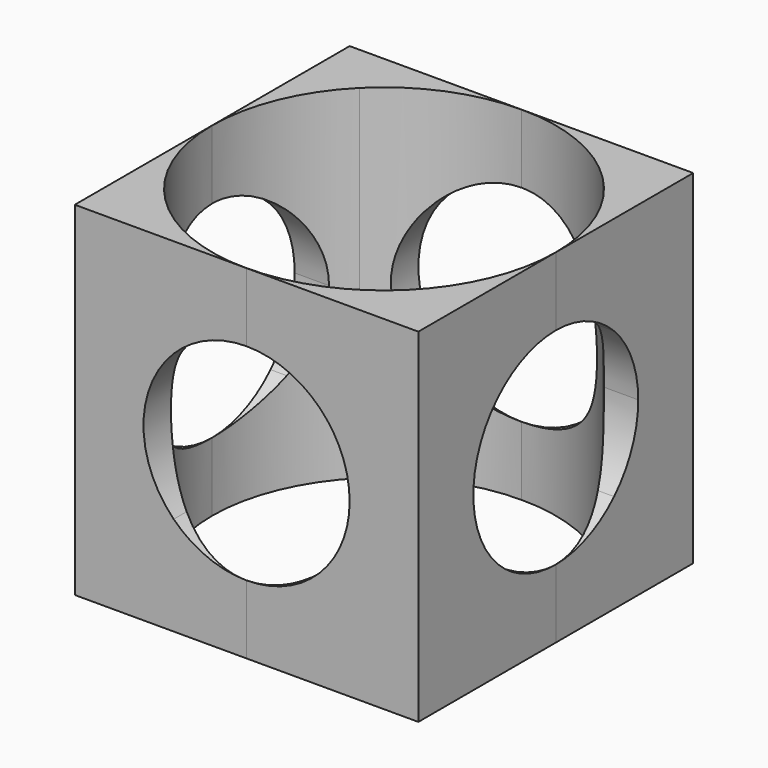
from build123d import *

# Parameters (mm, degrees)
F0_W     = 127
F0_H     = 127
F1_DEPTH = 127
F5_DEPTH = 127
F6_DEPTH = 127
F7_DEPTH = 127


with BuildPart() as f1:
    # F0 (on Front) → F1 (new body)
    with BuildSketch(Plane.XZ):
        with Locations((63.5, 63.5)):
            Rectangle(F0_W, F0_H)
    extrude(amount=F1_DEPTH)

    # F3 (on face) → F5 (cut)
    with BuildSketch(Plane.YZ.offset(127)):
        with BuildLine():
            ThreePointArc((-90.4407683632, 90.4407683632), (-101.6, 63.5), (-90.4407683632, 36.5592316368))
            Line((-90.4407683632, 36.5592316368), (-63.5, 63.5))
            Line((-63.5, 63.5), (-90.4407683632, 90.4407683632))
        make_face()
        with BuildLine():
            Line((-63.5, 63.5), (-90.4407683632, 36.5592316368))
            ThreePointArc((-90.4407683632, 36.5592316368), (-63.5, 25.4), (-36.5592316368, 36.5592316368))
            Line((-36.5592316368, 36.5592316368), (-63.5, 63.5))
        make_face()
        with BuildLine():
            Line((-90.4407683632, 90.4407683632), (-63.5, 63.5))
            Line((-63.5, 63.5), (-36.5592316368, 90.4407683632))
            ThreePointArc((-36.5592316368, 90.4407683632), (-63.5, 101.6), (-90.4407683632, 90.4407683632))
        make_face()
        with BuildLine():
            Line((-36.5592316368, 90.4407683632), (-63.5, 63.5))
            Line((-63.5, 63.5), (-36.5592316368, 36.5592316368))
            ThreePointArc((-36.5592316368, 36.5592316368), (-28.3001898113, 48.9197612269), (-25.4, 63.5))
            ThreePointArc((-25.4, 63.5), (-28.3001898113, 78.0802387731), (-36.5592316368, 90.4407683632))
        make_face()
    extrude(amount=-F5_DEPTH, mode=Mode.SUBTRACT)

    # F2 (on face) → F6 (cut)
    with BuildSketch(Plane.XZ.offset(127)):
        with BuildLine():
            ThreePointArc((36.5592316368, 90.4407683632), (25.4, 63.5), (36.5592316368, 36.5592316368))
            Line((36.5592316368, 36.5592316368), (63.5, 63.5))
            Line((63.5, 63.5), (36.5592316368, 90.4407683632))
        make_face()
        with BuildLine():
            Line((63.5, 63.5), (36.5592316368, 36.5592316368))
            ThreePointArc((36.5592316368, 36.5592316368), (63.5, 25.4), (90.4407683632, 36.5592316368))
            Line((90.4407683632, 36.5592316368), (63.5, 63.5))
        make_face()
        with BuildLine():
            Line((36.5592316368, 90.4407683632), (63.5, 63.5))
            Line((63.5, 63.5), (90.4407683632, 90.4407683632))
            ThreePointArc((90.4407683632, 90.4407683632), (63.5, 101.6), (36.5592316368, 90.4407683632))
        make_face()
        with BuildLine():
            Line((90.4407683632, 90.4407683632), (63.5, 63.5))
            Line((63.5, 63.5), (90.4407683632, 36.5592316368))
            ThreePointArc((90.4407683632, 36.5592316368), (98.6998101887, 48.9197612269), (101.6, 63.5))
            ThreePointArc((101.6, 63.5), (98.6998101887, 78.0802387731), (90.4407683632, 90.4407683632))
        make_face()
    extrude(amount=-F6_DEPTH, mode=Mode.SUBTRACT)

    # F4 (on face) → F7 (cut)
    with BuildSketch(Plane.XY.offset(127)):
        with BuildLine():
            ThreePointArc((18.5987193947, -18.5987193947), (0, -63.5), (18.5987193947, -108.4012806053))
            Line((18.5987193947, -108.4012806053), (63.5, -63.5))
            Line((63.5, -63.5), (18.5987193947, -18.5987193947))
        make_face()
        with BuildLine():
            Line((63.5, -63.5), (18.5987193947, -108.4012806053))
            ThreePointArc((18.5987193947, -108.4012806053), (63.5, -127), (108.4012806053, -108.4012806053))
            Line((108.4012806053, -108.4012806053), (63.5, -63.5))
        make_face()
        with BuildLine():
            Line((18.5987193947, -18.5987193947), (63.5, -63.5))
            Line((63.5, -63.5), (108.4012806053, -18.5987193947))
            ThreePointArc((108.4012806053, -18.5987193947), (63.5, 0), (18.5987193947, -18.5987193947))
        make_face()
        with BuildLine():
            Line((108.4012806053, -18.5987193947), (63.5, -63.5))
            Line((63.5, -63.5), (108.4012806053, -108.4012806053))
            ThreePointArc((108.4012806053, -108.4012806053), (122.1663503145, -87.8003979552), (127, -63.5))
            ThreePointArc((127, -63.5), (122.1663503145, -39.1996020448), (108.4012806053, -18.5987193947))
        make_face()
    extrude(amount=-F7_DEPTH, mode=Mode.SUBTRACT)


solid = f1.part
